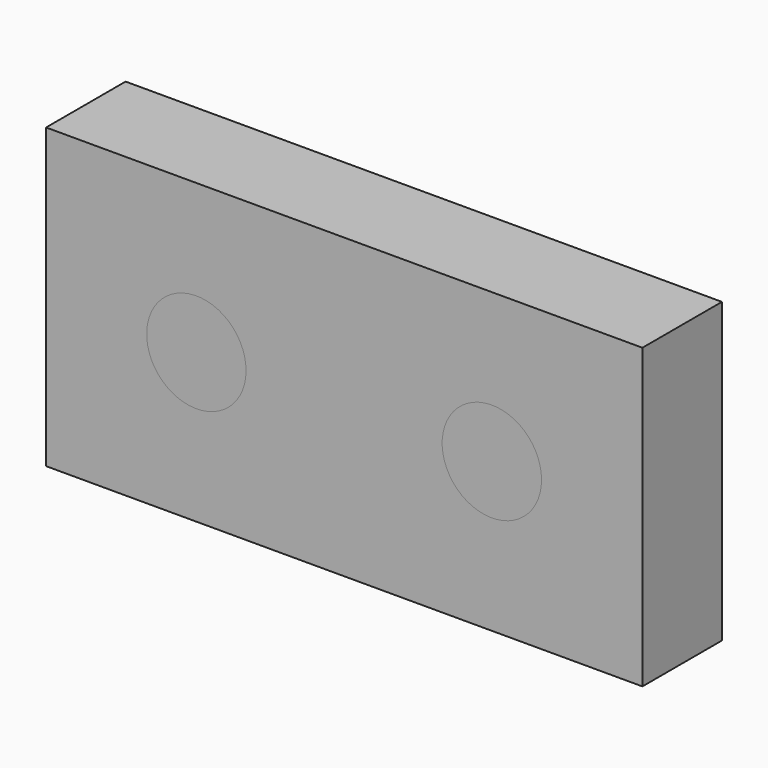
from build123d import *

# Parameters (mm, degrees)
F0_W     = 152.4
F0_H     = 76.2
F4_DEPTH = 25.4
F1_R     = 12.7
F2_R     = 12.7
F3_W     = 12.7
F3_H     = 6.35
F5_DEPTH = 25.4


with BuildPart() as f4:
    # F0 (on Front) → F4 (new body)
    with BuildSketch(Plane.XZ):
        Rectangle(F0_W, F0_H)
    extrude(amount=F4_DEPTH)

    # F3 (on Top) → F5 (cut)
    with BuildSketch(Plane.XY):
        with Locations((-6.35, -12.7)):
            Rectangle(F3_W, F3_H)
    extrude(amount=F5_DEPTH, mode=Mode.SUBTRACT)


with BuildPart() as f4b:
    # F1 (on face) → F4, piece 2 (new body)
    with BuildSketch(Plane.XZ):
        with Locations((-37.7927422523, 0)):
            Circle(F1_R)
    extrude(amount=F4_DEPTH)


with BuildPart() as f4c:
    # F2 (on face) → F4, piece 3 (new body)
    with BuildSketch(Plane.XZ):
        with Locations((37.7223184247, 0)):
            Circle(F2_R)
    extrude(amount=F4_DEPTH)


solid = Compound([f4.part, f4b.part, f4c.part])
